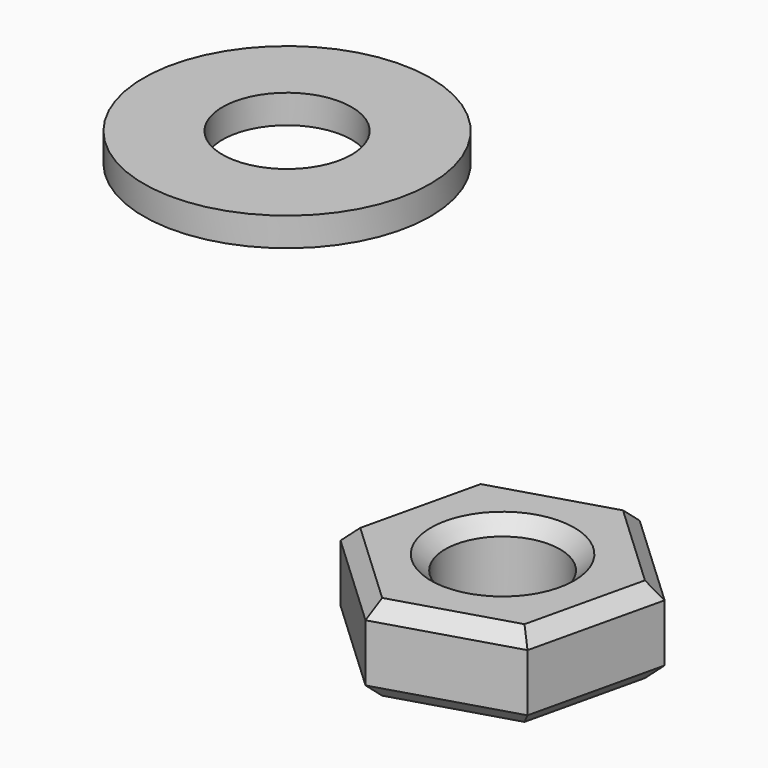
from build123d import *

# Parameters (mm, degrees)
F0_R     = 4
F1_DEPTH = 6
F2_SIZE  = 1
F3_R     = 10
F3_R_2   = 4.5
F4_DEPTH = 2


with BuildPart() as f1:
    # F0 (on Top) → F1 (new body)
    with BuildSketch(Plane.XY):
        Polygon((6.933852, -6.493973), (9.090872, 2.757906), (2.15702, 9.251879), (-6.933852, 6.493973), (-9.090872, -2.757906), (-2.15702, -9.251879), align=None)
        Circle(F0_R, mode=Mode.SUBTRACT)
    extrude(amount=F1_DEPTH)

    # F2
    f2_edges = [f1.edges().sort_by_distance(p)[0] for p in [
        (-8.012362, 1.868034, 6),
        (-5.623946, -6.004892, 6),
        (2.388416, -7.872926, 6),
        (8.012362, -1.868034, 6),
        (5.623946, 6.004892, 6),
        (-2.388416, 7.872926, 6),
        (2.388416, -7.872926, 0),
        (8.012362, -1.868034, 0),
        (5.623946, 6.004892, 0),
        (-2.388416, 7.872926, 0),
        (-8.012362, 1.868034, 0),
        (-5.623946, -6.004892, 0),
        (-4, 0, 0),
        (4, 0, 3),
        (-4, 0, 6),
    ]]
    chamfer(f2_edges, length=F2_SIZE)


with BuildPart() as f4:
    # F3 (on Top) → F4 (new body)
    with BuildSketch(Plane.XY):
        with Locations((-45.138892, 37.638888)):
            Circle(F3_R)
        with Locations((-45.138892, 37.638888)):
            Circle(F3_R_2, mode=Mode.SUBTRACT)
    extrude(amount=F4_DEPTH)


solid = Compound([f1.part, f4.part])
